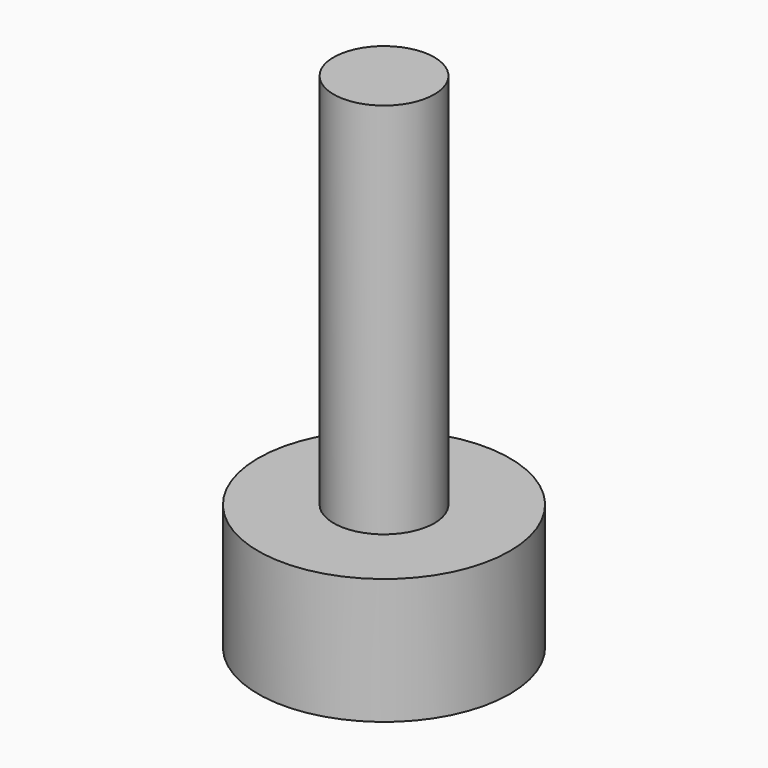
from build123d import *

# Parameters (mm, degrees)
CYLINDER005_R     = 2
CYLINDER005_DEPTH = 20
CYLINDER004_R     = 5
CYLINDER004_DEPTH = 5


with BuildPart() as cylinder005:
    # Cylinder005 → Cylinder005 (new body)
    with BuildSketch(Plane.XY):
        Circle(CYLINDER005_R)
    extrude(amount=CYLINDER005_DEPTH)


with BuildPart() as m4:
    # Cylinder004 → Cylinder004 (new body)
    with BuildSketch(Plane.XY):
        Circle(CYLINDER004_R)
    extrude(amount=CYLINDER004_DEPTH)

    # Fusion: union Cylinder005
    add(cylinder005.part)


solid = m4.part
